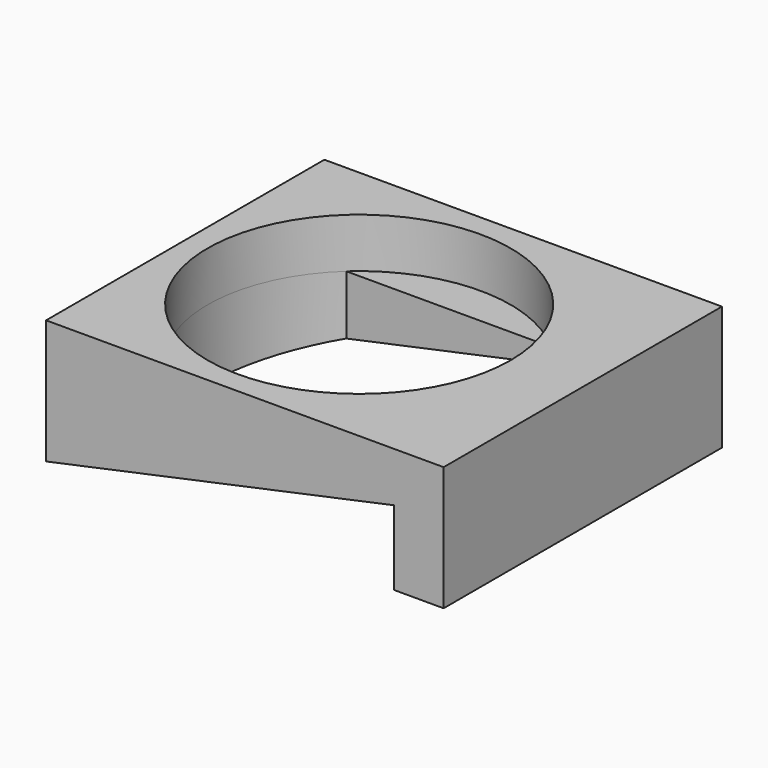
from build123d import *

# Parameters (mm, degrees)
F1_DEPTH = 70
F2_R     = 30.5
F3_DEPTH = 10
F5_DEPTH = 25


with BuildPart() as f1:
    # F0 (on Front) → F1 (new body)
    with BuildSketch(Plane.XZ):
        Polygon((1.617145, 13.06996), (-78.382855, 13.06996), (-78.382855, -11.93004), (-8.382855, 3.06996), (-8.382855, -11.93004), (1.617145, -11.93004), align=None)
    extrude(amount=F1_DEPTH)

    # F2 (on face) → F3 (cut)
    with BuildSketch(Plane.XY.offset(13.06996)):
        with Locations((-43.382855, -35)):
            Circle(F2_R)
    extrude(amount=-F3_DEPTH, mode=Mode.SUBTRACT)

    # F4 (on face) → F5 (cut)
    with BuildSketch(Plane.XY.offset(3.06996)):
        with BuildLine():
            ThreePointArc((-12.882855, -35), (-15.469745, -22.707389), (-22.791595, -12.5))
            Line((-22.791595, -12.5), (-63.974116, -12.5))
            ThreePointArc((-63.974116, -12.5), (-73.882855, -35), (-63.974116, -57.5))
            Line((-63.974116, -57.5), (-22.791595, -57.5))
            ThreePointArc((-22.791595, -57.5), (-15.469745, -47.292611), (-12.882855, -35))
        make_face()
    extrude(amount=-F5_DEPTH, mode=Mode.SUBTRACT)


solid = f1.part
